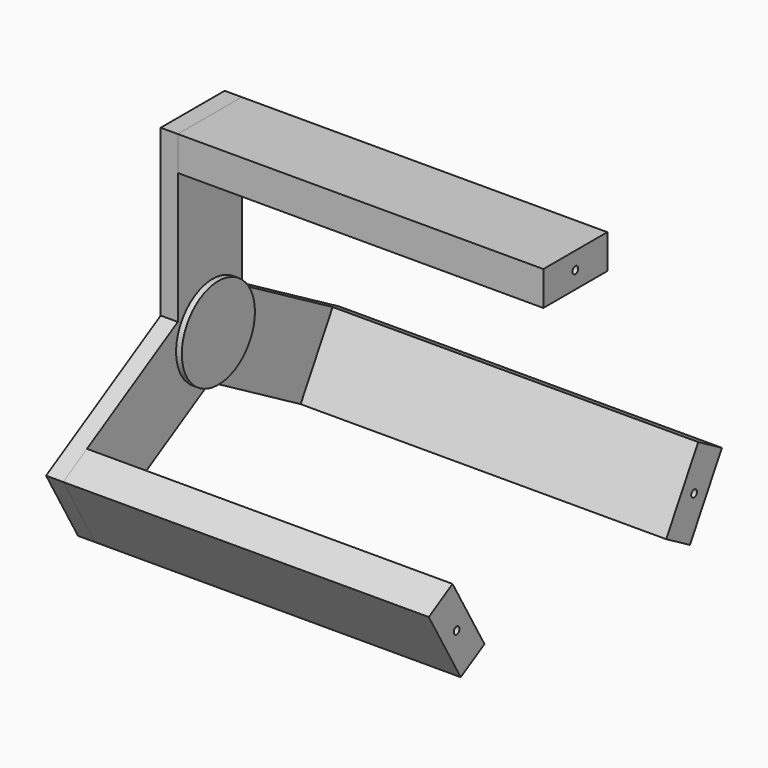
from build123d import *

# Parameters (mm, degrees)
SKETCH155_W             = 88.9
SKETCH155_H             = 38.1
PAD052_DEPTH            = 406.4
SKETCH157_R             = 3.96875
POCKET013_DEPTH         = 50.8
SKETCH158_W             = 88.9
SKETCH158_H             = 38.1
PAD053_DEPTH            = 406.4
SKETCH159_R             = 3.96875
POCKET014_DEPTH         = 50.8
BODY051_PLACEMENT_ANGLE = 240
SKETCH160_W             = 88.9
SKETCH160_H             = 38.1
PAD054_DEPTH            = 406.4
SKETCH161_R             = 3.96875
POCKET015_DEPTH         = 50.8
BODY052_PLACEMENT_ANGLE = 120
SKETCH_W                = 19.05
SKETCH_H                = 88.9
PAD_DEPTH               = 209.55
POCKET_DEPTH            = 19.051
SKETCH163_R             = 1.5875
POCKET016_DEPTH         = 19.051
SKETCH164_R             = 3.96875
POCKET017_DEPTH         = 3.175
SKETCH165_W             = 19.05
SKETCH165_H             = 88.9
PAD055_DEPTH            = 209.55
POCKET018_DEPTH         = 19.051
SKETCH167_R             = 1.5875
POCKET019_DEPTH         = 19.051
SKETCH168_R             = 3.96875
POCKET020_DEPTH         = 3.175
BODY053_PLACEMENT_ANGLE = 120
SKETCH169_W             = 19.05
SKETCH169_H             = 88.9
PAD056_DEPTH            = 209.55
POCKET021_DEPTH         = 19.051
SKETCH171_R             = 1.5875
POCKET022_DEPTH         = 19.051
SKETCH172_R             = 3.96875
POCKET023_DEPTH         = 3.175
BODY054_PLACEMENT_ANGLE = 240
SKETCH173_R             = 50.8
PAD057_DEPTH            = 6.35


with BuildPart() as body050:
    # Sketch155 → Pad052 (new body)
    with BuildSketch(Plane.YZ):
        with Locations((0, 190.5)):
            Rectangle(SKETCH155_W, SKETCH155_H)
    extrude(amount=PAD052_DEPTH)

    # Sketch157 → Pocket013 (cut)
    with BuildSketch(Plane.YZ.offset(406.4)):
        with Locations((0, 190.5)):
            Circle(SKETCH157_R)
    extrude(amount=-POCKET013_DEPTH, mode=Mode.SUBTRACT)


with BuildPart() as body050_1:
    # Body050 placement: moved
    add(body050.part.moved(Location((-841.375, 0, 0))))


with BuildPart() as body051:
    # Sketch158 → Pad053 (new body)
    with BuildSketch(Plane.YZ):
        with Locations((0, 190.5)):
            Rectangle(SKETCH158_W, SKETCH158_H)
    extrude(amount=PAD053_DEPTH)

    # Sketch159 → Pocket014 (cut)
    with BuildSketch(Plane.YZ.offset(406.4)):
        with Locations((0, 190.5)):
            Circle(SKETCH159_R)
    extrude(amount=-POCKET014_DEPTH, mode=Mode.SUBTRACT)


with BuildPart() as body051_1:
    # Body051 placement: moved
    add(body051.part.moved(Location((-841.375, 0, 0))).rotate(Axis((-841.375, 0, 0), (1, 0, 0)), BODY051_PLACEMENT_ANGLE))


with BuildPart() as body052:
    # Sketch160 → Pad054 (new body)
    with BuildSketch(Plane.YZ):
        with Locations((0, 190.5)):
            Rectangle(SKETCH160_W, SKETCH160_H)
    extrude(amount=PAD054_DEPTH)

    # Sketch161 → Pocket015 (cut)
    with BuildSketch(Plane.YZ.offset(406.4)):
        with Locations((0, 190.5)):
            Circle(SKETCH161_R)
    extrude(amount=-POCKET015_DEPTH, mode=Mode.SUBTRACT)


with BuildPart() as body052_1:
    # Body052 placement: moved
    add(body052.part.moved(Location((-841.375, 0, 0))).rotate(Axis((-841.375, 0, 0), (1, 0, 0)), BODY052_PLACEMENT_ANGLE))


with BuildPart() as body:
    # Sketch → Pad (new body)
    with BuildSketch(Plane.XY):
        Rectangle(SKETCH_W, SKETCH_H)
    extrude(amount=PAD_DEPTH)

    # Sketch162 (on Face1 of Pad) → Pocket (cut, through all)
    with BuildSketch(Plane(origin=(-9.525, 0, 0), x_dir=(0, -1, 0), z_dir=(-1, 0, 0))):
        Polygon((0, 0), (44.45, 25.663219), (44.45, 0), (-44.45, 0), (-44.45, 25.663219), align=None)
    extrude(amount=-POCKET_DEPTH, mode=Mode.SUBTRACT)

    # Sketch163 (on Face1 of Pocket) → Pocket016 (cut, through all)
    with BuildSketch(Plane(origin=(-9.525, 0, 0), x_dir=(0, -1, 0), z_dir=(-1, 0, 0))):
        with Locations((-25.4, 190.5)):
            Circle(SKETCH163_R)
        with Locations((25.4, 190.5)):
            Circle(SKETCH163_R)
    extrude(amount=-POCKET016_DEPTH, mode=Mode.SUBTRACT)

    # Sketch164 (on Face1 of Pocket016) → Pocket017 (cut)
    with BuildSketch(Plane(origin=(-9.525, 0, 0), x_dir=(0, -1, 0), z_dir=(-1, 0, 0))):
        with Locations((-25.4, 190.5)):
            Circle(SKETCH164_R)
        with Locations((25.4, 190.5)):
            Circle(SKETCH164_R)
    extrude(amount=-POCKET017_DEPTH, mode=Mode.SUBTRACT)


with BuildPart() as body_1:
    # Body placement: moved
    add(body.part.moved(Location((-850.9, 0, 0))))


with BuildPart() as body053:
    # Sketch165 → Pad055 (new body)
    with BuildSketch(Plane.XY):
        Rectangle(SKETCH165_W, SKETCH165_H)
    extrude(amount=PAD055_DEPTH)

    # Sketch166 (on Face1 of Pad055) → Pocket018 (cut, through all)
    with BuildSketch(Plane(origin=(-9.525, 0, 0), x_dir=(0, -1, 0), z_dir=(-1, 0, 0))):
        Polygon((0, 0), (44.45, 25.663219), (44.45, 0), (-44.45, 0), (-44.45, 25.663219), align=None)
    extrude(amount=-POCKET018_DEPTH, mode=Mode.SUBTRACT)

    # Sketch167 (on Face1 of Pocket018) → Pocket019 (cut, through all)
    with BuildSketch(Plane(origin=(-9.525, 0, 0), x_dir=(0, -1, 0), z_dir=(-1, 0, 0))):
        with Locations((-25.4, 190.5)):
            Circle(SKETCH167_R)
        with Locations((25.4, 190.5)):
            Circle(SKETCH167_R)
    extrude(amount=-POCKET019_DEPTH, mode=Mode.SUBTRACT)

    # Sketch168 (on Face1 of Pocket019) → Pocket020 (cut)
    with BuildSketch(Plane(origin=(-9.525, 0, 0), x_dir=(0, -1, 0), z_dir=(-1, 0, 0))):
        with Locations((-25.4, 190.5)):
            Circle(SKETCH168_R)
        with Locations((25.4, 190.5)):
            Circle(SKETCH168_R)
    extrude(amount=-POCKET020_DEPTH, mode=Mode.SUBTRACT)


with BuildPart() as body053_1:
    # Body053 placement: moved
    add(body053.part.moved(Location((-850.9, 0, 0))).rotate(Axis((-850.9, 0, 0), (1, 0, 0)), BODY053_PLACEMENT_ANGLE))


with BuildPart() as body054:
    # Sketch169 → Pad056 (new body)
    with BuildSketch(Plane.XY):
        Rectangle(SKETCH169_W, SKETCH169_H)
    extrude(amount=PAD056_DEPTH)

    # Sketch170 (on Face1 of Pad056) → Pocket021 (cut, through all)
    with BuildSketch(Plane(origin=(-9.525, 0, 0), x_dir=(0, -1, 0), z_dir=(-1, 0, 0))):
        Polygon((0, 0), (44.45, 25.663219), (44.45, 0), (-44.45, 0), (-44.45, 25.663219), align=None)
    extrude(amount=-POCKET021_DEPTH, mode=Mode.SUBTRACT)

    # Sketch171 (on Face1 of Pocket021) → Pocket022 (cut, through all)
    with BuildSketch(Plane(origin=(-9.525, 0, 0), x_dir=(0, -1, 0), z_dir=(-1, 0, 0))):
        with Locations((-25.4, 190.5)):
            Circle(SKETCH171_R)
        with Locations((25.4, 190.5)):
            Circle(SKETCH171_R)
    extrude(amount=-POCKET022_DEPTH, mode=Mode.SUBTRACT)

    # Sketch172 (on Face1 of Pocket022) → Pocket023 (cut)
    with BuildSketch(Plane(origin=(-9.525, 0, 0), x_dir=(0, -1, 0), z_dir=(-1, 0, 0))):
        with Locations((-25.4, 190.5)):
            Circle(SKETCH172_R)
        with Locations((25.4, 190.5)):
            Circle(SKETCH172_R)
    extrude(amount=-POCKET023_DEPTH, mode=Mode.SUBTRACT)


with BuildPart() as body054_1:
    # Body054 placement: moved
    add(body054.part.moved(Location((-850.9, 0, 0))).rotate(Axis((-850.9, 0, 0), (1, 0, 0)), BODY054_PLACEMENT_ANGLE))


with BuildPart() as obj1:
    # Sketch173 → Pad057 (new body)
    with BuildSketch(Plane.YZ):
        Circle(SKETCH173_R)
    extrude(amount=PAD057_DEPTH)


with BuildPart() as obj1_1:
    # Body055 placement: moved
    add(obj1.part.moved(Location((-838.2, 0, 0))))


solid = Compound([body050_1.part, body051_1.part, body052_1.part, body_1.part, body053_1.part, body054_1.part, obj1_1.part])
